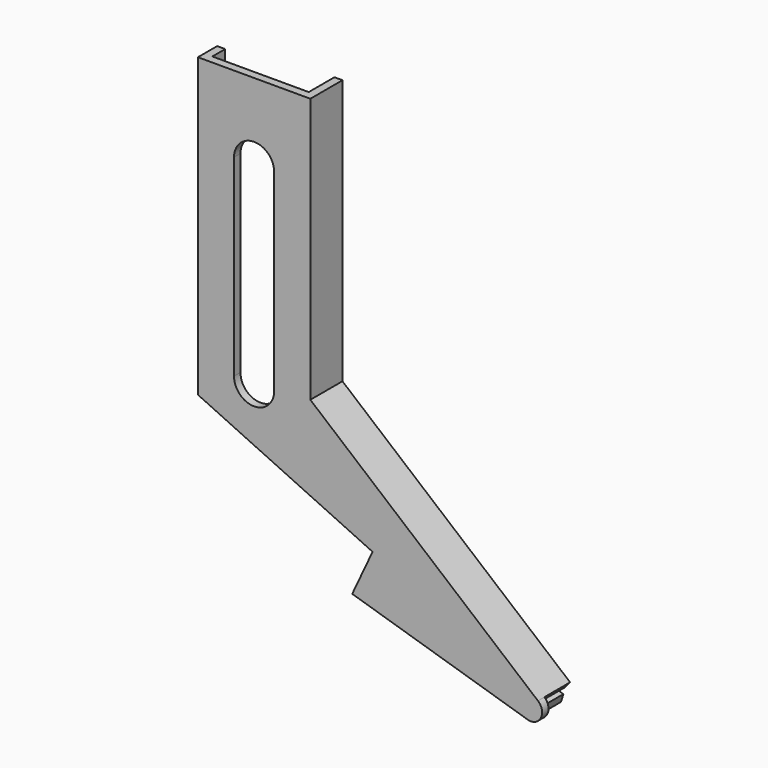
from build123d import *

# Parameters (mm, degrees)
F1_DEPTH = 1
F3_DEPTH = 2
F5_DEPTH = 4
F7_DEPTH = 25


with BuildPart() as f1:
    # F0 (on Front) → F1 (new body)
    with BuildSketch(Plane.XZ):
        with BuildLine():
            Line((7, -33), (7, 0))
            Line((7, 0), (-7, 0))
            Line((-7, 0), (-7, -37))
            Line((-7, -37), (14.751387, -47.142838))
            Line((14.751387, -47.142838), (12.215677, -52.580685))
            Line((12.215677, -52.580685), (34.210687, -59.305234))
            ThreePointArc((34.210687, -59.305234), (35.730719, -58.472537), (35.343644, -56.783142))
            Line((35.343644, -56.783142), (7, -33))
        make_face()
    extrude(amount=F1_DEPTH)

    # F2 (on face) → F3 (join)
    with BuildSketch(Plane(origin=(0, 0, 0), x_dir=(-1, 0, 0), z_dir=(0, 1, 0))):
        Polygon((7, -37), (7, 0), (6, 0), (6, -37.466308), align=None)
    extrude(amount=F3_DEPTH)

    # F4 (on face) → F5 (join)
    with BuildSketch(Plane(origin=(0, 0, 0), x_dir=(-1, 0, 0), z_dir=(0, 1, 0))):
        Polygon((-34.700857, -57.549186), (-6, -33.466308), (-6, 0), (-7, 0), (-7, -33), (-35.343644, -56.783142), align=None)
        Polygon((-12.215677, -52.580685), (-12.642449, -51.66547), (-34.503058, -58.348929), (-34.210687, -59.305234), align=None)
    extrude(amount=F5_DEPTH)

    # F6 (on face) → F7 (cut)
    with BuildSketch(Plane.XZ.offset(1)):
        with BuildLine():
            ThreePointArc((2.5, -9.5), (0, -7), (-2.5, -9.5))
            Line((-2.5, -9.5), (-2.5, -33.5))
            ThreePointArc((-2.5, -33.5), (0, -36), (2.5, -33.5))
            Line((2.5, -33.5), (2.5, -9.5))
        make_face()
    extrude(amount=-F7_DEPTH, mode=Mode.SUBTRACT)


solid = f1.part
